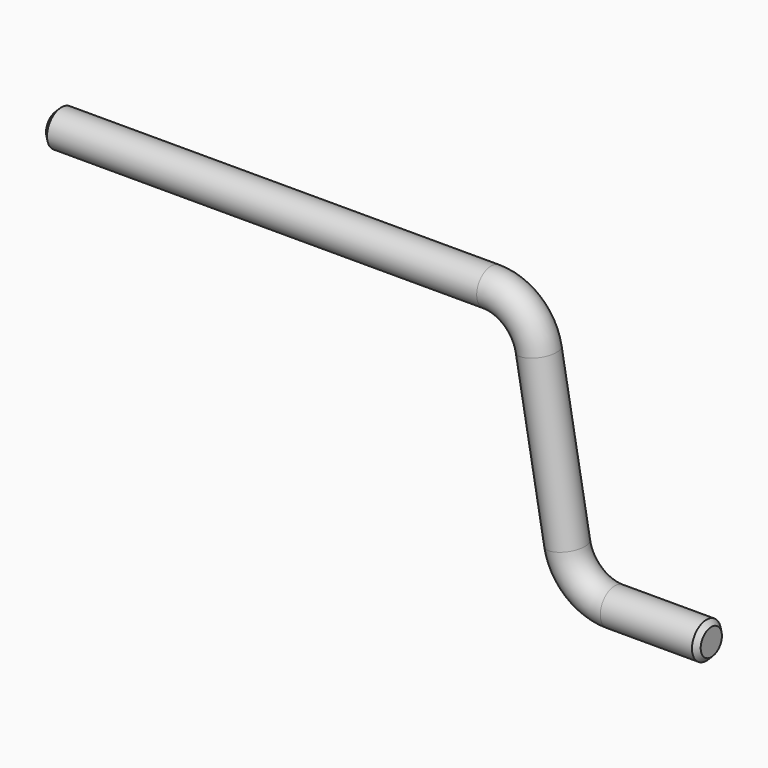
from build123d import *

# Parameters (mm, degrees)
F2_R    = 7.5
F4_SIZE = 2


with BuildPart() as f3:
    # F3: sweep along a path in F0
    with BuildLine(Plane.XZ) as f3_path:
        Line((-89.5, 0), (90.5, 0))
        ThreePointArc((90.5, 0), (103.3557521937, -4.6791111376), (110.1961550602, -16.5270364467))
        Line((110.1961550602, -16.5270364467), (122.0005282577, -83.4729635533))
        ThreePointArc((122.0005282577, -83.4729635533), (128.8409311242, -95.3208888624), (141.6966833179, -100))
        Line((141.6966833179, -100), (181.6966833179, -100))
    # F2 (on offset) → F3 (sweep)
    with BuildSketch(Plane.YZ.offset(-89.5)):
        Circle(F2_R)
    sweep(path=f3_path.line)

    # F4
    f4_edges = [f3.edges().sort_by_distance(p)[0] for p in [
        (181.696683, -7.5, -100),
        (-89.5, -7.5, 0),
    ]]
    chamfer(f4_edges, length=F4_SIZE)


solid = f3.part
